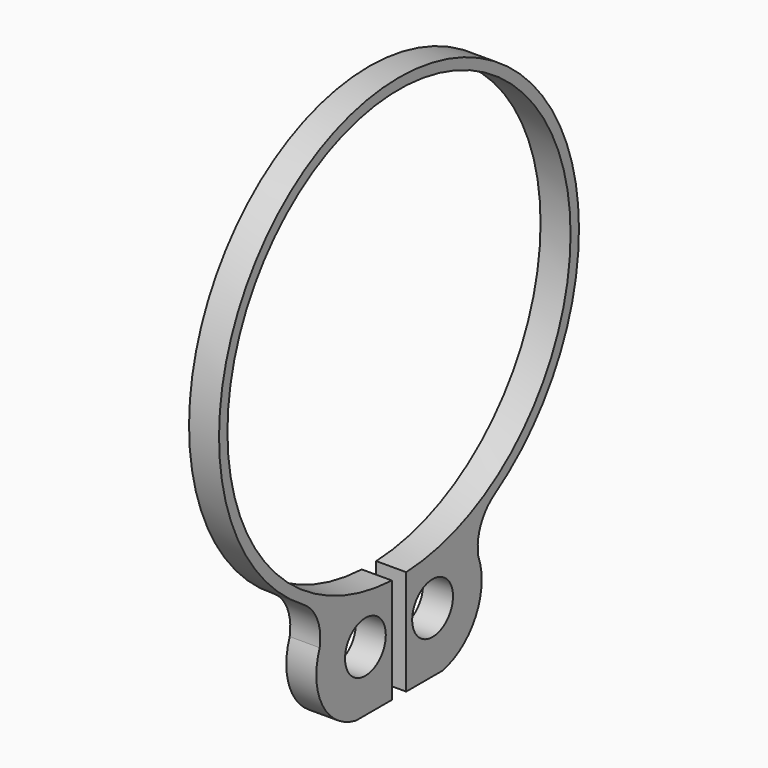
from build123d import *

# Parameters (mm, degrees)
F0_R     = 0.85
F1_DEPTH = 1


with BuildPart() as f1:
    # F0 (on Right) → F1 (new body)
    with BuildSketch(Plane.YZ):
        with BuildLine():
            ThreePointArc((-0.3, -7.143704), (0, 7.15), (0.3, -7.143704))
            Line((0.3, -7.143704), (0.3, -10.65))
            Line((0.3, -10.65), (1.8, -10.65))
            ThreePointArc((1.8, -10.65), (3.195251, -9.624672), (3.304501, -7.896642))
            ThreePointArc((3.304501, -7.896642), (3.40666, -7.021654), (3.982704, -6.355161))
            ThreePointArc((3.982704, -6.355161), (0, 7.5), (-3.982704, -6.355161))
            ThreePointArc((-3.982704, -6.355161), (-3.40666, -7.021654), (-3.304501, -7.896642))
            ThreePointArc((-3.304501, -7.896642), (-3.195251, -9.624672), (-1.8, -10.65))
            Line((-1.8, -10.65), (-0.3, -10.65))
            Line((-0.3, -10.65), (-0.3, -7.505624))
            Line((-0.3, -7.505624), (-0.3, -7.493998))
            Line((-0.3, -7.493998), (-0.3, -7.143704))
        make_face()
        with Locations((-1.4, -8.643704)):
            Circle(F0_R, mode=Mode.SUBTRACT)
        with Locations((1.4, -8.643704)):
            Circle(F0_R, mode=Mode.SUBTRACT)
        with BuildLine():
            ThreePointArc((-0.292364, -7.494299), (-0.296182, -7.494149), (-0.3, -7.493998))
            Line((-0.3, -7.493998), (-0.3, -7.505624))
            ThreePointArc((-0.3, -7.505624), (-0.296191, -7.499955), (-0.292364, -7.494299))
        make_face()
    extrude(amount=-F1_DEPTH)


solid = f1.part
